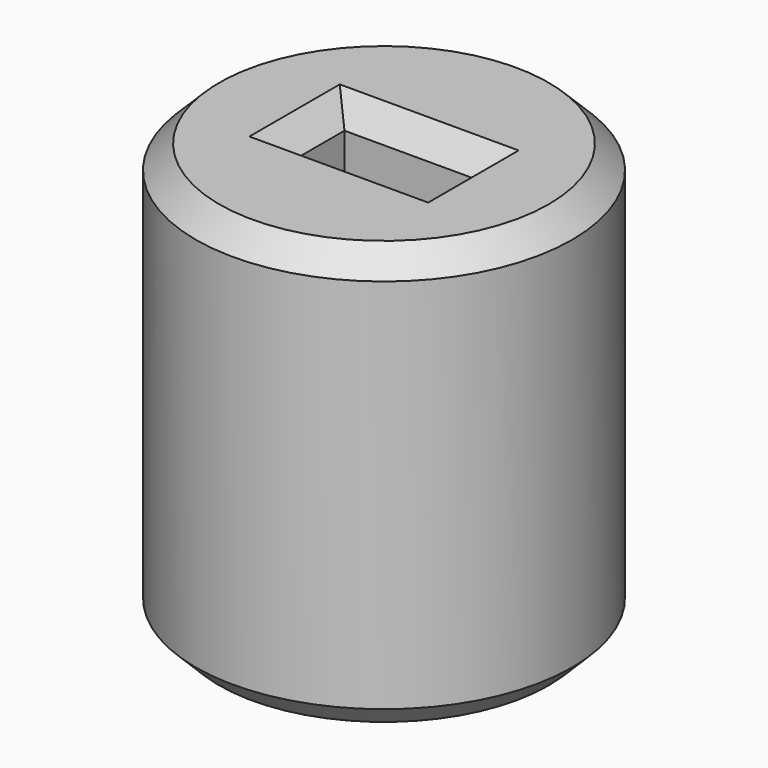
from build123d import *

# Parameters (mm, degrees)
F0_R     = 4
F0_W     = 2.8
F0_H     = 1.4
F1_DEPTH = 9
F2_SIZE  = 0.5


with BuildPart() as f1:
    # F0 (on Top) → F1 (new body)
    with BuildSketch(Plane.XY):
        Circle(F0_R)
        Rectangle(F0_W, F0_H, mode=Mode.SUBTRACT)
    extrude(amount=F1_DEPTH)

    # F2
    f2_edges = [f1.edges().sort_by_distance(p)[0] for p in [
        (-4, 0, 9),
        (-4, 0, 0),
        (1.4, 0, 0),
        (0, 0.7, 0),
        (-1.4, 0, 0),
        (0, -0.7, 0),
        (0, 0.7, 9),
        (1.4, 0, 9),
        (-1.4, 0, 9),
        (0, -0.7, 9),
    ]]
    chamfer(f2_edges, length=F2_SIZE)


solid = f1.part
